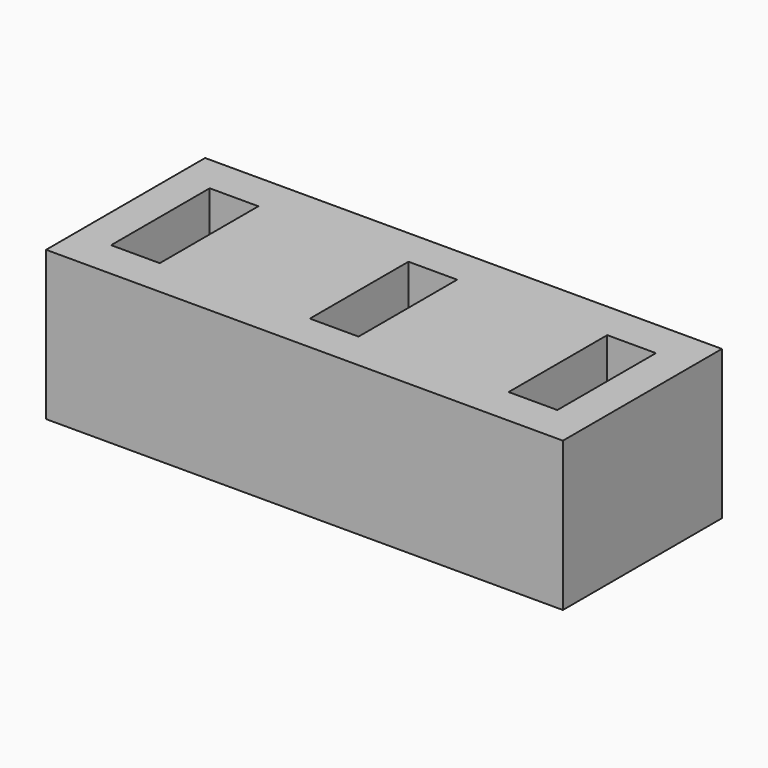
from build123d import *

# Parameters (mm, degrees)
BOX002_W     = 4.9
BOX002_H     = 12.4
BOX002_DEPTH = 23
BOX001_W     = 4.9
BOX001_H     = 12.4
BOX001_DEPTH = 23
BOX003_W     = 4.9
BOX003_H     = 12.4
BOX003_DEPTH = 23
BOX_W        = 52
BOX_H        = 20
BOX_DEPTH    = 15


with BuildPart() as cube002:
    # Box002 → Box002 (new body)
    with BuildSketch(Plane(origin=(23.5, 3.8, -3), x_dir=(1, 0, 0), z_dir=(0, 0, 1))):
        with Locations((2.45, 6.2)):
            Rectangle(BOX002_W, BOX002_H)
    extrude(amount=BOX002_DEPTH)


with BuildPart() as cube001:
    # Box001 → Box001 (new body)
    with BuildSketch(Plane(origin=(3.5, 3.8, -3), x_dir=(1, 0, 0), z_dir=(0, 0, 1))):
        with Locations((2.45, 6.2)):
            Rectangle(BOX001_W, BOX001_H)
    extrude(amount=BOX001_DEPTH)


with BuildPart() as fusion:
    # Box003 → Box003 (new body)
    with BuildSketch(Plane(origin=(43.5, 3.8, -3), x_dir=(1, 0, 0), z_dir=(0, 0, 1))):
        with Locations((2.45, 6.2)):
            Rectangle(BOX003_W, BOX003_H)
    extrude(amount=BOX003_DEPTH)

    # Fusion: union Cube002, Cube001
    add(cube002.part)
    add(cube001.part)


with BuildPart() as cut:
    # Box → Box (new body)
    with BuildSketch(Plane.XY):
        with Locations((26, 10)):
            Rectangle(BOX_W, BOX_H)
    extrude(amount=BOX_DEPTH)

    # Cut: cut Fusion
    add(fusion.part, mode=Mode.SUBTRACT)


solid = cut.part
